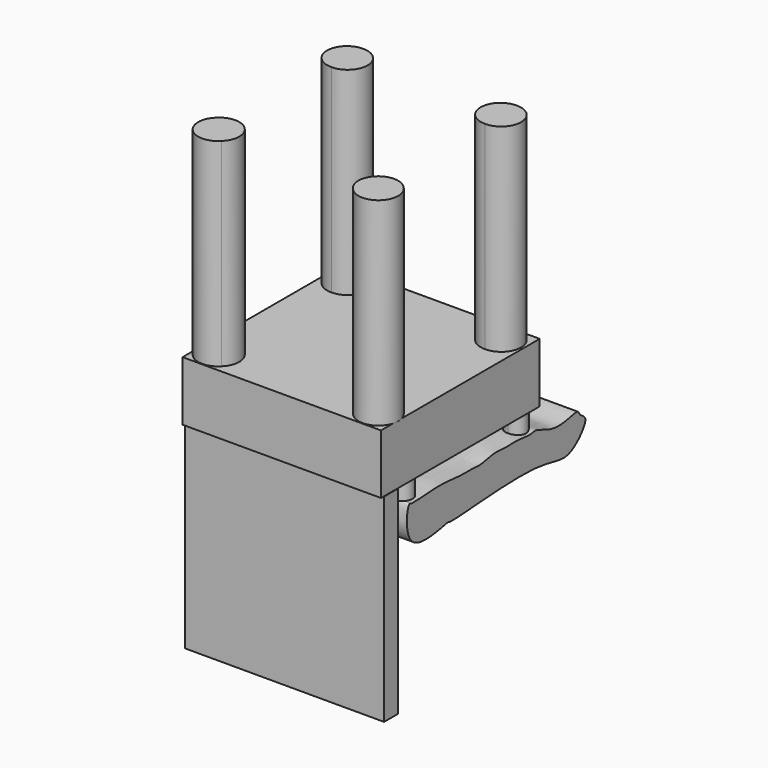
from build123d import *

# Parameters (mm, degrees)
F0_W      = 50
F0_H      = 50
F1_DEPTH  = 15
F2_R      = 5
F3_DEPTH  = 50
F4_DEPTH  = 50
F5_W      = 50
F5_H      = 4.3227914721
F6_DEPTH  = 50
F7_R      = 2.5
F8_DEPTH  = 5
F11_DEPTH = 10


with BuildPart() as f1:
    # F0 (on Top) → F1 (new body)
    with BuildSketch(Plane.XY):
        Rectangle(F0_W, F0_H)
    extrude(amount=F1_DEPTH)

    # F2 (on face) → F3 (join)
    with BuildSketch(Plane.XY.offset(15)):
        with Locations((-19.452566281, 19.8284629732)):
            Circle(F2_R)
    extrude(amount=F3_DEPTH)

    # F2 (on face) → F4 (join)
    with BuildSketch(Plane.XY.offset(15)):
        with Locations((-19.452566281, 19.8284629732)):
            Circle(F2_R)
        with Locations((19.2646197975, 19.8284629732)):
            Circle(F2_R)
        with Locations((20.0164094567, -19.6405146271)):
            Circle(F2_R)
        with Locations((-20.2043559402, -19.8284629732)):
            Circle(F2_R)
    extrude(amount=F4_DEPTH)

    # F5 (on Top) → F6 (join)
    with BuildSketch(Plane.XY):
        with Locations((0.0969558954, -21.9898587093)):
            Rectangle(F5_W, F5_H)
    extrude(amount=-F6_DEPTH)

    # F7 (on Top) → F8 (join)
    with BuildSketch(Plane.XY):
        with Locations((-21.5784888715, -13.9535106719)):
            Circle(F7_R)
        with Locations((-21.5784888715, 21.8620691448)):
            Circle(F7_R)
        with Locations((21.4440748096, 21.8620691448)):
            Circle(F7_R)
        with Locations((21.4440748096, -13.9535106719)):
            Circle(F7_R)
    extrude(amount=-F8_DEPTH)

    # F10 (on offset) → F11 (join)
    with BuildSketch(Plane.YZ.offset(-25)):
        with BuildLine():
            add(Edge.make_bspline(
                [(-14.9865457788, -13.8081694022), (-11.9830351299, -16.2557475963), (-3.4694080731, -13.5171438298), (-3.8754566001, -14.7527208894), (25.7195651769, -11.096449296), (33.8087685612, -16.6334073007), (41.0624903149, -8.4037137454), (37.5100199232, -7.2888270735), (37.328131563, -5.677141079), (34.2293422962, -6.4209112831), (29.007674944, -7.3104394187), (23.9580776231, -4.369277894), (22.0485864613, -5.2917968402), (17.9138206679, -4.4483057912), (14.0658027192, -4.9551851177), (10.702859379, -4.3054390504), (6.3600639941, -5.5618505904), (3.8362450828, -5.1260969204), (-0.109932757, -5.3363127108), (-5.1910222612, -4.6060834589), (-9.4693172652, -4.8266204041), (-12.4051124234, -5.1233648989), (-14.8287222638, -5.0419836599), (-15.3771025403, -5.253352609), (-16.7086626663, -4.0113195095), (-17.6560557819, -11.6327702655), (-14.9865457788, -13.8081694022)],
                knots=[0, 0, 0, 0, 0.0684345872, 0.0795703224, 0.1864988957, 0.2538014219, 0.3083790604, 0.3390979991, 0.3610038407, 0.3935944875, 0.4420072773, 0.4892060345, 0.5172854322, 0.5582279592, 0.5987841259, 0.6366332642, 0.6790901876, 0.7116439271, 0.7516647833, 0.7985339121, 0.8407750327, 0.8766209078, 0.9074091495, 0.9223436454, 0.9391755727, 1, 1, 1, 1], degree=3))
        make_face()
    extrude(amount=F11_DEPTH)

    # F12: F1 across plane


with BuildPart() as f1_1:
    add(f1.part)
    add(f1.part.mirror(Plane.YZ))


solid = f1_1.part
